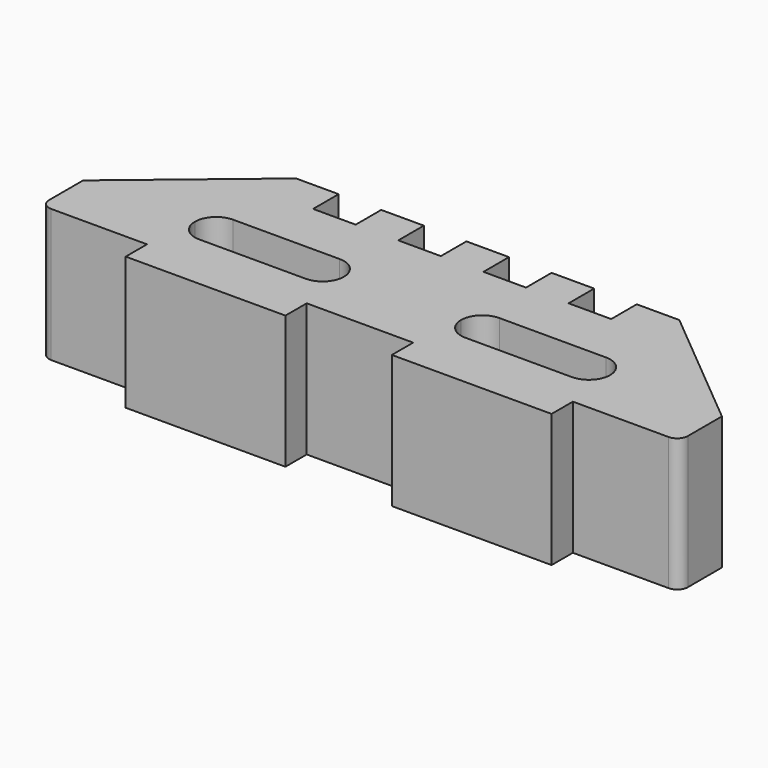
from build123d import *

# Parameters (mm, degrees)
F1_DEPTH = 25


with BuildPart() as f1:
    # F0 (on Top) → F1 (new body)
    with BuildSketch(Plane.XY):
        with BuildLine():
            Line((0, 5), (0, 0))
            Line((0, 0), (29, 0))
            Line((29, 0), (30, 0))
            Line((30, 0), (30, 5))
            Line((30, 5), (50, 5))
            Line((50, 5), (50, 0))
            Line((50, 0), (80, 0))
            Line((80, 0), (80, 5))
            Line((80, 5), (98, 5))
            ThreePointArc((98, 5), (99.414214, 5.585786), (100, 7))
            Line((100, 7), (100, 15))
            Line((100, 15), (76, 35))
            Line((76, 35), (68, 35))
            Line((68, 35), (68, 29))
            Line((68, 29), (60, 29))
            Line((60, 29), (60, 35))
            Line((60, 35), (52, 35))
            Line((52, 35), (52, 29))
            Line((52, 29), (44, 29))
            Line((44, 29), (44, 35))
            Line((44, 35), (36, 35))
            Line((36, 35), (36, 29))
            Line((36, 29), (28, 29))
            Line((28, 29), (28, 35))
            Line((28, 35), (20, 35))
            Line((20, 35), (20, 29))
            Line((20, 29), (12, 29))
            Line((12, 29), (12, 35))
            Line((12, 35), (4, 35))
            Line((4, 35), (-20, 15))
            Line((-20, 15), (-20, 7))
            ThreePointArc((-20, 7), (-19.414214, 5.585786), (-18, 5))
            Line((-18, 5), (0, 5))
        make_face()
        with BuildLine():
            ThreePointArc((29, 15), (27.828427, 12.171573), (25, 11))
            Line((25, 11), (5, 11))
            ThreePointArc((5, 11), (2.171573, 12.171573), (1, 15))
            ThreePointArc((1, 15), (2.171573, 17.828427), (5, 19))
            Line((5, 19), (25, 19))
            ThreePointArc((25, 19), (27.828427, 17.828427), (29, 15))
        make_face(mode=Mode.SUBTRACT)
        with BuildLine():
            ThreePointArc((55, 11), (52.171573, 12.171573), (51, 15))
            ThreePointArc((51, 15), (52.171573, 17.828427), (55, 19))
            Line((55, 19), (75, 19))
            ThreePointArc((75, 19), (77.828427, 17.828427), (79, 15))
            ThreePointArc((79, 15), (77.828427, 12.171573), (75, 11))
            Line((75, 11), (55, 11))
        make_face(mode=Mode.SUBTRACT)
    extrude(amount=F1_DEPTH)


solid = f1.part
